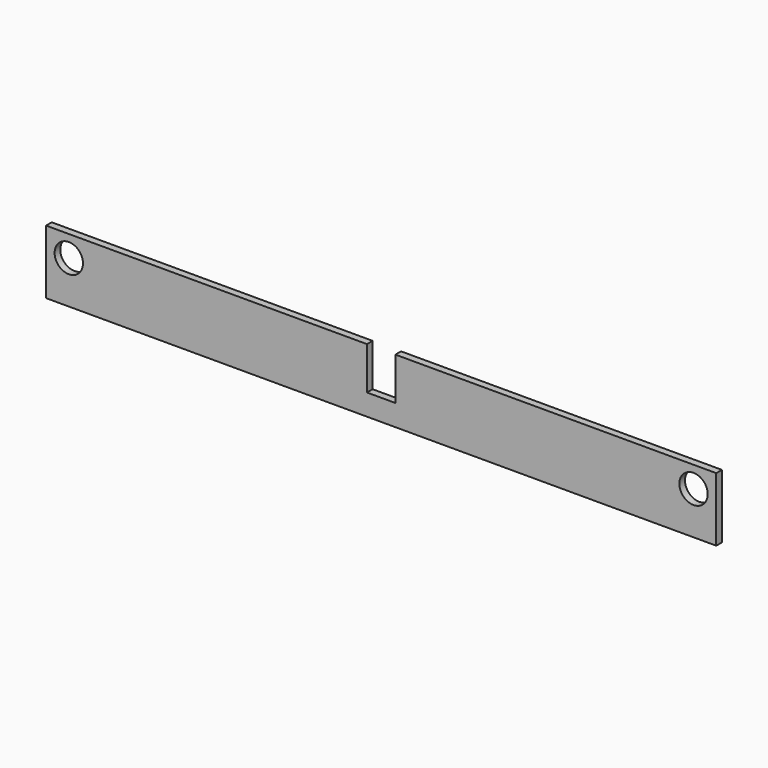
from build123d import *

# Parameters (mm, degrees)
F0_R     = 1
F1_DEPTH = 0.5


with BuildPart() as f1:
    # F0 (on Front) → F1 (new body)
    with BuildSketch(Plane.XZ):
        Polygon((-23.6, -2.25), (23.6, -2.25), (23.6, 2.25), (1, 2.25), (1, -0.75), (-1, -0.75), (-1, 2.25), (-23.6, 2.25), align=None)
        with Locations((-22, 0.75)):
            Circle(F0_R, mode=Mode.SUBTRACT)
        with Locations((22, 0.75)):
            Circle(F0_R, mode=Mode.SUBTRACT)
    extrude(amount=F1_DEPTH)


solid = f1.part
